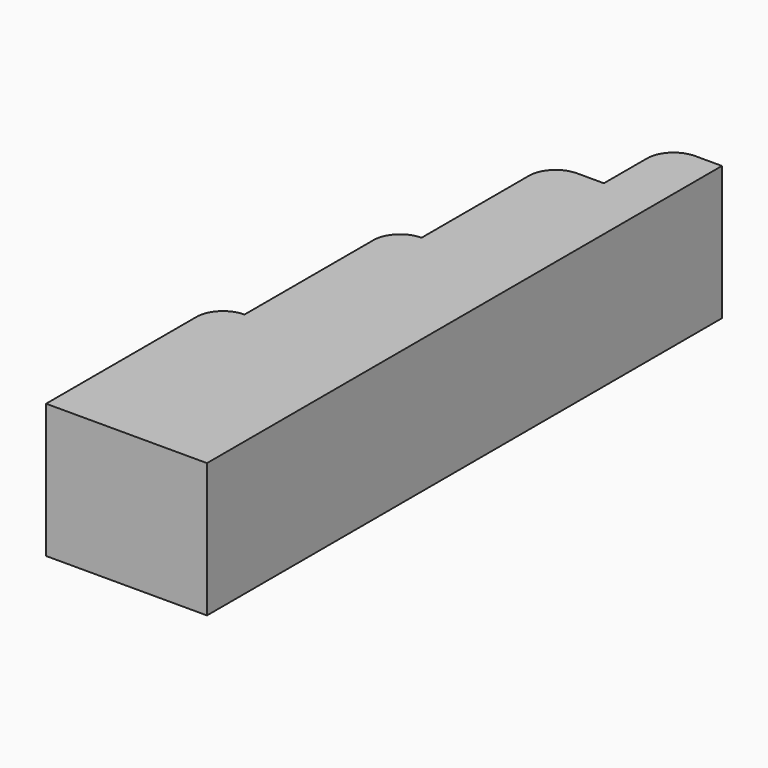
from build123d import *

# Parameters (mm, degrees)
F1_DEPTH = 25


with BuildPart() as f1:
    # F0 (on Top) → F1 (new body)
    with BuildSketch(Plane.XY):
        with BuildLine():
            Line((-20.374035, -63.01075), (-20.374035, 56.98925))
            Line((-20.374035, 56.98925), (-25.374035, 56.98925))
            ThreePointArc((-25.374035, 56.98925), (-28.909569, 55.524784), (-30.374035, 51.98925))
            Line((-30.374035, 51.98925), (-30.374035, 41.98925))
            Line((-30.374035, 41.98925), (-35.374035, 41.98925))
            ThreePointArc((-35.374035, 41.98925), (-38.909569, 40.524784), (-40.374035, 36.98925))
            Line((-40.374035, 36.98925), (-40.374035, 11.98925))
            ThreePointArc((-40.374035, 11.98925), (-43.909569, 10.524784), (-45.374035, 6.98925))
            Line((-45.374035, 6.98925), (-45.374035, -23.01075))
            ThreePointArc((-45.374035, -23.01075), (-48.909569, -24.475216), (-50.374035, -28.01075))
            Line((-50.374035, -28.01075), (-50.374035, -63.01075))
            Line((-50.374035, -63.01075), (-20.374035, -63.01075))
        make_face()
    extrude(amount=F1_DEPTH)


solid = f1.part
